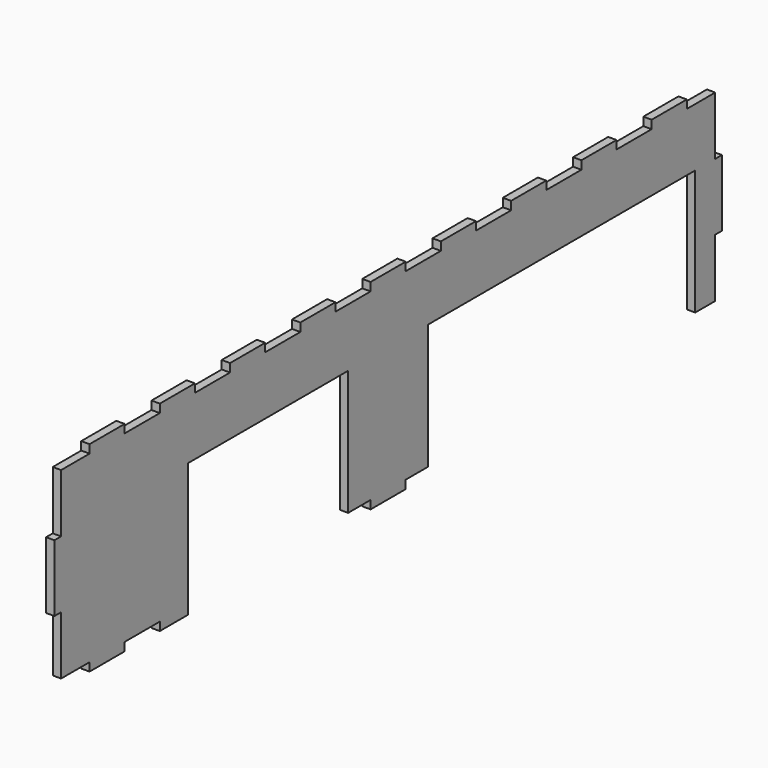
from build123d import *

# Parameters (mm, degrees)
F1_DEPTH = 3.175


with BuildPart() as f1:
    # F0 (on Right) → F1 (new body)
    with BuildSketch(Plane.YZ):
        Polygon((-155.575, 34.925), (-155.575, 12.7), (-158.75, 12.7), (-158.75, -12.7), (-155.575, -12.7), (-155.575, -34.925), (-142.039474, -34.925), (-142.039474, -38.1), (-125.328947, -38.1), (-125.328947, -34.925), (-108.618421, -34.925), (-108.618421, -38.1), (-95.25, -38.1), (-95.25, 12.7), (-19.05, 12.7), (-19.05, -34.925), (-8.355262, -34.925), (-8.355262, -38.1), (8.355264, -38.1), (8.355264, -34.925), (19.05, -34.925), (19.05, 12.7), (95.25, 12.7), (146.05, 12.7), (146.05, -34.925), (155.575, -34.925), (155.575, -12.7), (158.75, -12.7), (158.75, 12.7), (155.575, 12.7), (155.575, 34.925), (142.039475, 34.925), (142.039475, 38.1), (125.328949, 38.1), (125.328949, 34.925), (108.618422, 34.925), (108.618422, 38.1), (91.907896, 38.1), (91.907896, 34.925), (75.19737, 34.925), (75.19737, 38.1), (58.486843, 38.1), (58.486843, 34.925), (41.776317, 34.925), (41.776317, 38.1), (25.06579, 38.1), (25.06579, 34.925), (8.355264, 34.925), (8.355264, 38.1), (-8.355262, 38.1), (-8.355262, 34.925), (-25.065789, 34.925), (-25.065789, 38.1), (-41.776315, 38.1), (-41.776315, 34.925), (-58.486842, 34.925), (-58.486842, 38.1), (-75.197368, 38.1), (-75.197368, 34.925), (-91.907894, 34.925), (-91.907894, 38.1), (-108.618421, 38.1), (-108.618421, 34.925), (-125.328947, 34.925), (-125.328947, 38.1), (-142.039474, 38.1), (-142.039474, 34.925), align=None)
    extrude(amount=F1_DEPTH)


solid = f1.part
